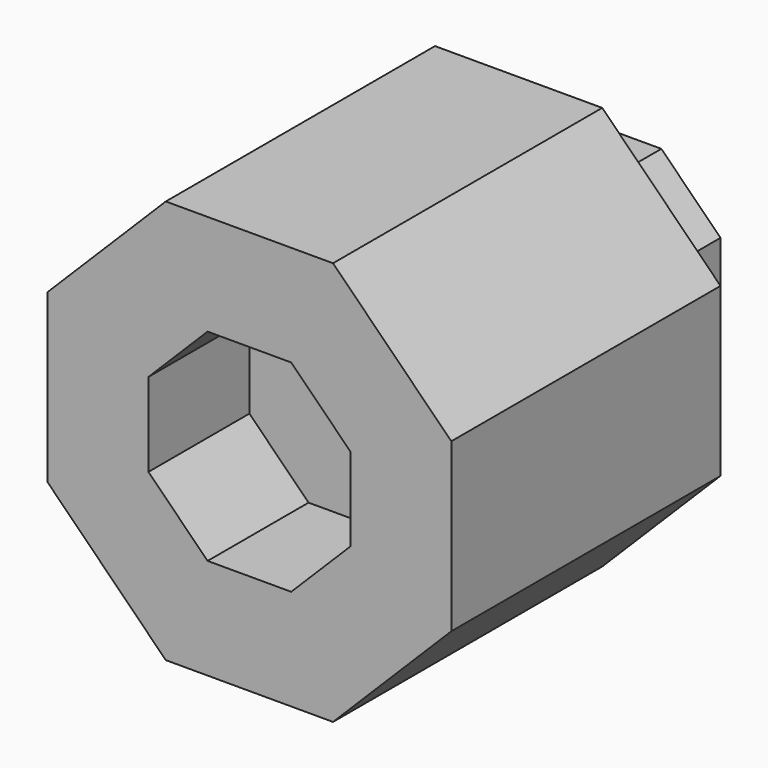
from build123d import *

# Parameters (mm, degrees)
F1_DEPTH = 40
F3_DEPTH = 15
F5_DEPTH = 15


with BuildPart() as f1:
    # F0 (on Front) → F1 (new body)
    with BuildSketch(Plane.XZ):
        Polygon((24, -9.941125497), (24, 9.941125497), (9.941125497, 24), (-9.941125497, 24), (-24, 9.941125497), (-24, -9.941125497), (-9.941125497, -24), (9.941125497, -24), align=None)
    extrude(amount=F1_DEPTH)

    # F2 (on Front) → F3 (join)
    with BuildSketch(Plane.XZ):
        Polygon((4.9705627485, -12), (12, -4.9705627485), (12, 4.9705627485), (4.9705627485, 12), (-4.9705627485, 12), (-12, 4.9705627485), (-12, -4.9705627485), (-4.9705627485, -12), align=None)
    extrude(amount=-F3_DEPTH)

    # F4 (on face) → F5 (cut)
    with BuildSketch(Plane.XZ.offset(40)):
        Polygon((-4.9705627485, -12), (4.9705627485, -12), (12, -4.9705627485), (12, 4.9705627485), (4.9705627485, 12), (-4.9705627485, 12), (-12, 4.9705627485), (-12, -4.9705627485), align=None)
    extrude(amount=-F5_DEPTH, mode=Mode.SUBTRACT)


solid = f1.part
